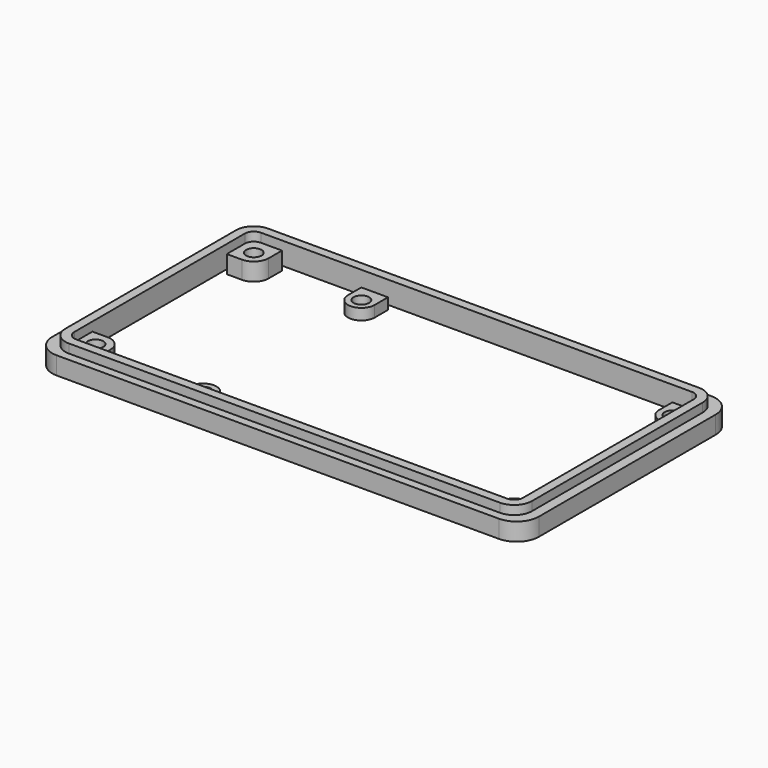
from build123d import *

# Parameters (mm, degrees)
F1_DEPTH = 6
F2_DEPTH = 4
F0_R     = 1.75
F3_DEPTH = 2.5
F4_DEPTH = 4
F5_DEPTH = 1


with BuildPart() as f1:
    # F0 (on Top) → F1 (new body)
    with BuildSketch(Plane.XY):
        with BuildLine():
            Line((48.5, 28), (-48.5, 28))
            ThreePointArc((-48.5, 28), (-51.328427, 26.828427), (-52.5, 24))
            Line((-52.5, 24), (-52.5, -24))
            ThreePointArc((-52.5, -24), (-51.328427, -26.828427), (-48.5, -28))
            Line((-48.5, -28), (48.5, -28))
            ThreePointArc((48.5, -28), (51.328427, -26.828427), (52.5, -24))
            Line((52.5, -24), (52.5, 24))
            ThreePointArc((52.5, 24), (51.328427, 26.828427), (48.5, 28))
        make_face()
        with BuildLine():
            ThreePointArc((-50.5, 24), (-49.914214, 25.414214), (-48.5, 26))
            Line((-48.5, 26), (-43.75, 26))
            Line((-43.75, 26), (-25.9, 26))
            Line((-25.9, 26), (-19.9, 26))
            Line((-19.9, 26), (44.1, 26))
            Line((44.1, 26), (48.5, 26))
            ThreePointArc((48.5, 26), (49.914214, 25.414214), (50.5, 24))
            Line((50.5, 24), (50.5, 19.25))
            Line((50.5, 19.25), (50.5, -19.25))
            Line((50.5, -19.25), (50.5, -24))
            ThreePointArc((50.5, -24), (49.914214, -25.414214), (48.5, -26))
            Line((48.5, -26), (44.1, -26))
            Line((44.1, -26), (-19.9, -26))
            Line((-19.9, -26), (-25.9, -26))
            Line((-25.9, -26), (-43.75, -26))
            Line((-43.75, -26), (-48.5, -26))
            ThreePointArc((-48.5, -26), (-49.914214, -25.414214), (-50.5, -24))
            Line((-50.5, -24), (-50.5, -18.9))
            Line((-50.5, -18.9), (-50.5, 18.9))
            Line((-50.5, 18.9), (-50.5, 24))
        make_face(mode=Mode.SUBTRACT)
    extrude(amount=F1_DEPTH)

    # F0 (on Top) → F2 (join)
    with BuildSketch(Plane.XY):
        with BuildLine():
            Line((49.75, 29.875), (-49.75, 29.875))
            ThreePointArc((-49.75, 29.875), (-53.285534, 28.410534), (-54.75, 24.875))
            Line((-54.75, 24.875), (-54.75, -24.875))
            ThreePointArc((-54.75, -24.875), (-53.285534, -28.410534), (-49.75, -29.875))
            Line((-49.75, -29.875), (49.75, -29.875))
            ThreePointArc((49.75, -29.875), (53.285534, -28.410534), (54.75, -24.875))
            Line((54.75, -24.875), (54.75, 24.875))
            ThreePointArc((54.75, 24.875), (53.285534, 28.410534), (49.75, 29.875))
        make_face()
        with BuildLine():
            ThreePointArc((-52.5, 24), (-51.328427, 26.828427), (-48.5, 28))
            Line((-48.5, 28), (48.5, 28))
            ThreePointArc((48.5, 28), (51.328427, 26.828427), (52.5, 24))
            Line((52.5, 24), (52.5, -24))
            ThreePointArc((52.5, -24), (51.328427, -26.828427), (48.5, -28))
            Line((48.5, -28), (-48.5, -28))
            ThreePointArc((-48.5, -28), (-51.328427, -26.828427), (-52.5, -24))
            Line((-52.5, -24), (-52.5, 24))
        make_face(mode=Mode.SUBTRACT)
    extrude(amount=F2_DEPTH)

    # F0 (on Top) → F3 (join)
    with BuildSketch(Plane.XY):
        with BuildLine():
            Line((-19.9, 26), (-25.9, 26))
            Line((-25.9, 26), (-25.9, 22.25))
            ThreePointArc((-25.9, 22.25), (-22.9, 19.25), (-19.9, 22.25))
            Line((-19.9, 22.25), (-19.9, 26))
        make_face()
        with Locations((-22.9, 22.25)):
            Circle(F0_R, mode=Mode.SUBTRACT)
        with BuildLine():
            Line((48.5, 26), (44.1, 26))
            Line((44.1, 26), (44.1, 22.25))
            ThreePointArc((44.1, 22.25), (44.97868, 20.12868), (47.1, 19.25))
            Line((47.1, 19.25), (50.5, 19.25))
            Line((50.5, 19.25), (50.5, 24))
            ThreePointArc((50.5, 24), (49.914214, 25.414214), (48.5, 26))
        make_face()
        with Locations((47.1, 22.25)):
            Circle(F0_R, mode=Mode.SUBTRACT)
        with BuildLine():
            Line((50.5, -24), (50.5, -19.25))
            Line((50.5, -19.25), (47.1, -19.25))
            ThreePointArc((47.1, -19.25), (44.97868, -20.12868), (44.1, -22.25))
            Line((44.1, -22.25), (44.1, -26))
            Line((44.1, -26), (48.5, -26))
            ThreePointArc((48.5, -26), (49.914214, -25.414214), (50.5, -24))
        make_face()
        with Locations((47.1, -22.25)):
            Circle(F0_R, mode=Mode.SUBTRACT)
        with BuildLine():
            Line((-25.9, -22.25), (-25.9, -26))
            Line((-25.9, -26), (-19.9, -26))
            Line((-19.9, -26), (-19.9, -22.25))
            ThreePointArc((-19.9, -22.25), (-22.9, -19.25), (-25.9, -22.25))
        make_face()
        with Locations((-22.9, -22.25)):
            Circle(F0_R, mode=Mode.SUBTRACT)
    extrude(amount=F3_DEPTH)

    # F0 (on Top) → F4 (join)
    with BuildSketch(Plane.XY):
        with BuildLine():
            Line((-43.75, 26), (-48.5, 26))
            ThreePointArc((-48.5, 26), (-49.914214, 25.414214), (-50.5, 24))
            Line((-50.5, 24), (-50.5, 18.9))
            Line((-50.5, 18.9), (-47.1, 18.9))
            ThreePointArc((-47.1, 18.9), (-44.731192, 19.881192), (-43.75, 22.25))
            Line((-43.75, 22.25), (-43.75, 26))
        make_face()
        with Locations((-47.1, 22.25)):
            Circle(F0_R, mode=Mode.SUBTRACT)
        with BuildLine():
            Line((-47.1, -18.9), (-50.5, -18.9))
            Line((-50.5, -18.9), (-50.5, -24))
            ThreePointArc((-50.5, -24), (-49.914214, -25.414214), (-48.5, -26))
            Line((-48.5, -26), (-43.75, -26))
            Line((-43.75, -26), (-43.75, -22.25))
            ThreePointArc((-43.75, -22.25), (-44.731192, -19.881192), (-47.1, -18.9))
        make_face()
        with Locations((-47.1, -22.25)):
            Circle(F0_R, mode=Mode.SUBTRACT)
    extrude(amount=F4_DEPTH)

    # F0 (on Top) → F5 (cut)
    with BuildSketch(Plane.XY):
        with BuildLine():
            Line((48.5, 28), (-48.5, 28))
            ThreePointArc((-48.5, 28), (-51.328427, 26.828427), (-52.5, 24))
            Line((-52.5, 24), (-52.5, -24))
            ThreePointArc((-52.5, -24), (-51.328427, -26.828427), (-48.5, -28))
            Line((-48.5, -28), (48.5, -28))
            ThreePointArc((48.5, -28), (51.328427, -26.828427), (52.5, -24))
            Line((52.5, -24), (52.5, 24))
            ThreePointArc((52.5, 24), (51.328427, 26.828427), (48.5, 28))
        make_face()
        with BuildLine():
            ThreePointArc((-50.5, 24), (-49.914214, 25.414214), (-48.5, 26))
            Line((-48.5, 26), (-43.75, 26))
            Line((-43.75, 26), (-25.9, 26))
            Line((-25.9, 26), (-19.9, 26))
            Line((-19.9, 26), (44.1, 26))
            Line((44.1, 26), (48.5, 26))
            ThreePointArc((48.5, 26), (49.914214, 25.414214), (50.5, 24))
            Line((50.5, 24), (50.5, 19.25))
            Line((50.5, 19.25), (50.5, -19.25))
            Line((50.5, -19.25), (50.5, -24))
            ThreePointArc((50.5, -24), (49.914214, -25.414214), (48.5, -26))
            Line((48.5, -26), (44.1, -26))
            Line((44.1, -26), (-19.9, -26))
            Line((-19.9, -26), (-25.9, -26))
            Line((-25.9, -26), (-43.75, -26))
            Line((-43.75, -26), (-48.5, -26))
            ThreePointArc((-48.5, -26), (-49.914214, -25.414214), (-50.5, -24))
            Line((-50.5, -24), (-50.5, -18.9))
            Line((-50.5, -18.9), (-50.5, 18.9))
            Line((-50.5, 18.9), (-50.5, 24))
        make_face(mode=Mode.SUBTRACT)
    extrude(amount=F5_DEPTH, mode=Mode.SUBTRACT)


solid = f1.part
